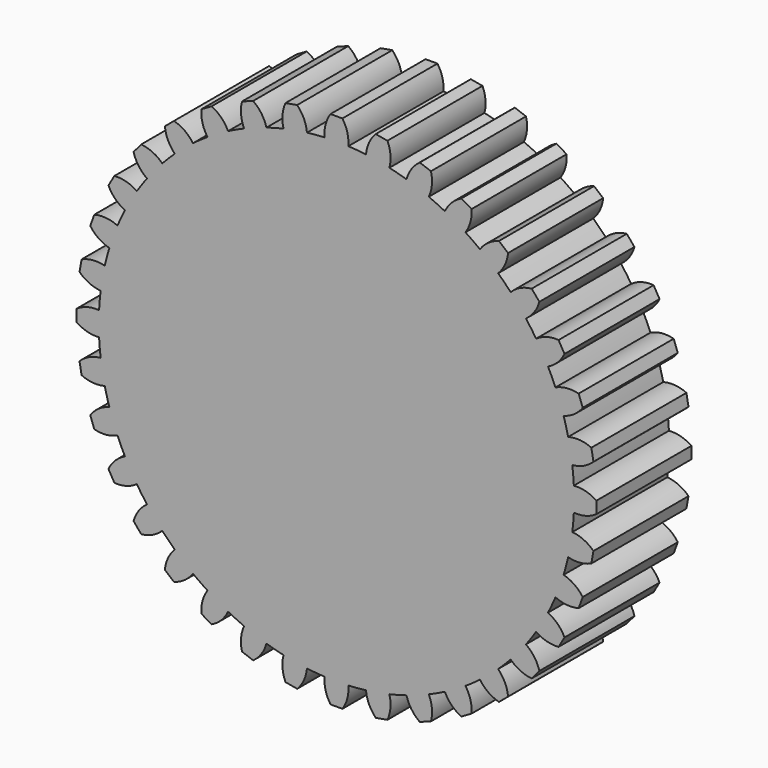
from build123d import *

# Parameters (mm, degrees)
F1_DEPTH = 25.4


with BuildPart() as f1:
    # F0 (on Front) → F1 (new body)
    with BuildSketch(Plane.XZ):
        with BuildLine():
            ThreePointArc((50.73646, -2.54), (50.784113, -1.270397), (50.8, 0))
            ThreePointArc((50.8, 0), (50.784113, 1.270397), (50.73646, 2.54))
            ThreePointArc((50.73646, 2.54), (50.606691, 4.427512), (50.406726, 6.308882))
            ThreePointArc((50.406726, 6.308882), (50.028234, 8.821327), (49.524593, 11.311706))
            ThreePointArc((49.524593, 11.311706), (49.069032, 13.148007), (48.545408, 14.966072))
            ThreePointArc((48.545408, 14.966072), (47.736385, 17.374623), (46.807946, 19.739711))
            ThreePointArc((46.807946, 19.739711), (46.040436, 21.469008), (45.209063, 23.168526))
            ThreePointArc((45.209063, 23.168526), (43.994091, 25.4), (42.669063, 27.567935))
            ThreePointArc((42.669063, 27.567935), (41.612924, 29.137683), (40.499064, 30.667015))
            ThreePointArc((40.499064, 30.667015), (38.915058, 32.653611), (37.233703, 34.558521))
            ThreePointArc((37.233703, 34.558521), (35.921024, 35.921024), (34.558521, 37.233703))
            ThreePointArc((34.558521, 37.233703), (32.653611, 38.915058), (30.667015, 40.499064))
            ThreePointArc((30.667015, 40.499064), (29.137683, 41.612924), (27.567935, 42.669063))
            ThreePointArc((27.567935, 42.669063), (25.4, 43.994091), (23.168526, 45.209063))
            ThreePointArc((23.168526, 45.209063), (21.469008, 46.040436), (19.739711, 46.807946))
            ThreePointArc((19.739711, 46.807946), (17.374623, 47.736385), (14.966072, 48.545408))
            ThreePointArc((14.966072, 48.545408), (13.148007, 49.069032), (11.311706, 49.524593))
            ThreePointArc((11.311706, 49.524593), (8.821327, 50.028234), (6.308882, 50.406726))
            ThreePointArc((6.308882, 50.406726), (4.427512, 50.606691), (2.54, 50.73646))
            ThreePointArc((2.54, 50.73646), (1.270397, 50.784113), (0, 50.8))
            ThreePointArc((0, 50.8), (-1.270397, 50.784113), (-2.54, 50.73646))
            ThreePointArc((-2.54, 50.73646), (-4.427512, 50.606691), (-6.308882, 50.406726))
            ThreePointArc((-6.308882, 50.406726), (-8.821327, 50.028234), (-11.311706, 49.524593))
            ThreePointArc((-11.311706, 49.524593), (-13.148007, 49.069032), (-14.966072, 48.545408))
            ThreePointArc((-14.966072, 48.545408), (-17.374623, 47.736385), (-19.739711, 46.807946))
            ThreePointArc((-19.739711, 46.807946), (-21.469008, 46.040436), (-23.168526, 45.209063))
            ThreePointArc((-23.168526, 45.209063), (-25.4, 43.994091), (-27.567935, 42.669063))
            ThreePointArc((-27.567935, 42.669063), (-29.137683, 41.612924), (-30.667015, 40.499064))
            ThreePointArc((-30.667015, 40.499064), (-32.653611, 38.915058), (-34.558521, 37.233703))
            ThreePointArc((-34.558521, 37.233703), (-35.921024, 35.921024), (-37.233703, 34.558521))
            ThreePointArc((-37.233703, 34.558521), (-38.915058, 32.653611), (-40.499064, 30.667015))
            ThreePointArc((-40.499064, 30.667015), (-41.612924, 29.137683), (-42.669063, 27.567935))
            ThreePointArc((-42.669063, 27.567935), (-43.994091, 25.4), (-45.209063, 23.168526))
            ThreePointArc((-45.209063, 23.168526), (-46.040436, 21.469008), (-46.807946, 19.739711))
            ThreePointArc((-46.807946, 19.739711), (-47.736385, 17.374623), (-48.545408, 14.966072))
            ThreePointArc((-48.545408, 14.966072), (-49.069032, 13.148007), (-49.524593, 11.311706))
            ThreePointArc((-49.524593, 11.311706), (-50.028234, 8.821327), (-50.406726, 6.308882))
            ThreePointArc((-50.406726, 6.308882), (-50.606691, 4.427512), (-50.73646, 2.54))
            ThreePointArc((-50.73646, 2.54), (-50.8, 0), (-50.73646, -2.54))
            ThreePointArc((-50.73646, -2.54), (-50.606691, -4.427512), (-50.406726, -6.308882))
            ThreePointArc((-50.406726, -6.308882), (-50.028234, -8.821327), (-49.524593, -11.311706))
            ThreePointArc((-49.524593, -11.311706), (-49.069032, -13.148007), (-48.545408, -14.966072))
            ThreePointArc((-48.545408, -14.966072), (-47.736385, -17.374623), (-46.807946, -19.739711))
            ThreePointArc((-46.807946, -19.739711), (-46.040436, -21.469008), (-45.209063, -23.168526))
            ThreePointArc((-45.209063, -23.168526), (-43.994091, -25.4), (-42.669063, -27.567935))
            ThreePointArc((-42.669063, -27.567935), (-41.612924, -29.137683), (-40.499064, -30.667015))
            ThreePointArc((-40.499064, -30.667015), (-38.915058, -32.653611), (-37.233703, -34.558521))
            ThreePointArc((-37.233703, -34.558521), (-35.921024, -35.921024), (-34.558521, -37.233703))
            ThreePointArc((-34.558521, -37.233703), (-32.653611, -38.915058), (-30.667015, -40.499064))
            ThreePointArc((-30.667015, -40.499064), (-29.137683, -41.612924), (-27.567935, -42.669063))
            ThreePointArc((-27.567935, -42.669063), (-25.4, -43.994091), (-23.168526, -45.209063))
            ThreePointArc((-23.168526, -45.209063), (-21.469008, -46.040436), (-19.739711, -46.807946))
            ThreePointArc((-19.739711, -46.807946), (-17.374623, -47.736385), (-14.966072, -48.545408))
            ThreePointArc((-14.966072, -48.545408), (-13.148007, -49.069032), (-11.311706, -49.524593))
            ThreePointArc((-11.311706, -49.524593), (-8.821327, -50.028234), (-6.308882, -50.406726))
            ThreePointArc((-6.308882, -50.406726), (-4.427512, -50.606691), (-2.54, -50.73646))
            ThreePointArc((-2.54, -50.73646), (0, -50.8), (2.54, -50.73646))
            ThreePointArc((2.54, -50.73646), (4.427512, -50.606691), (6.308882, -50.406726))
            ThreePointArc((6.308882, -50.406726), (8.821327, -50.028234), (11.311706, -49.524593))
            ThreePointArc((11.311706, -49.524593), (13.148007, -49.069032), (14.966072, -48.545408))
            ThreePointArc((14.966072, -48.545408), (17.374623, -47.736385), (19.739711, -46.807946))
            ThreePointArc((19.739711, -46.807946), (21.469008, -46.040436), (23.168526, -45.209063))
            ThreePointArc((23.168526, -45.209063), (25.4, -43.994091), (27.567935, -42.669063))
            ThreePointArc((27.567935, -42.669063), (29.137683, -41.612924), (30.667015, -40.499064))
            ThreePointArc((30.667015, -40.499064), (32.653611, -38.915058), (34.558521, -37.233703))
            ThreePointArc((34.558521, -37.233703), (35.921024, -35.921024), (37.233703, -34.558521))
            ThreePointArc((37.233703, -34.558521), (38.915058, -32.653611), (40.499064, -30.667015))
            ThreePointArc((40.499064, -30.667015), (41.612924, -29.137683), (42.669063, -27.567935))
            ThreePointArc((42.669063, -27.567935), (43.994091, -25.4), (45.209063, -23.168526))
            ThreePointArc((45.209063, -23.168526), (46.040436, -21.469008), (46.807946, -19.739711))
            ThreePointArc((46.807946, -19.739711), (47.736385, -17.374623), (48.545408, -14.966072))
            ThreePointArc((48.545408, -14.966072), (49.069032, -13.148007), (49.524593, -11.311706))
            ThreePointArc((49.524593, -11.311706), (50.028234, -8.821327), (50.406726, -6.308882))
            ThreePointArc((50.406726, -6.308882), (50.606691, -4.427512), (50.73646, -2.54))
        make_face()
        with BuildLine():
            ThreePointArc((-45.209063, 23.168526), (-43.994091, 25.4), (-42.669063, 27.567935))
            ThreePointArc((-42.669063, 27.567935), (-44.956858, 28.640162), (-47.472538, 28.874752))
            Line((-47.472538, 28.874752), (-48.742538, 26.675048))
            ThreePointArc((-48.742538, 26.675048), (-47.281537, 24.613701), (-45.209063, 23.168526))
        make_face()
        with BuildLine():
            ThreePointArc((-48.545408, 14.966072), (-47.736385, 17.374623), (-46.807946, 19.739711))
            ThreePointArc((-46.807946, 19.739711), (-49.247175, 20.398377), (-51.765372, 20.19256))
            Line((-51.765372, 20.19256), (-52.634103, 17.805741))
            ThreePointArc((-52.634103, 17.805741), (-50.837348, 16.02941), (-48.545408, 14.966072))
        make_face()
        with BuildLine():
            ThreePointArc((-50.406726, 6.308882), (-50.028234, 8.821327), (-49.524593, 11.311706))
            ThreePointArc((-49.524593, 11.311706), (-52.04114, 11.536798), (-54.485341, 10.896827))
            Line((-54.485341, 10.896827), (-54.926407, 8.395416))
            ThreePointArc((-54.926407, 8.395416), (-52.848493, 6.958075), (-50.406726, 6.308882))
        make_face()
        with BuildLine():
            ThreePointArc((-55.5498, -1.27), (-53.253862, -2.324679), (-50.73646, -2.54))
            ThreePointArc((-50.73646, -2.54), (-50.8, 0), (-50.73646, 2.54))
            ThreePointArc((-50.73646, 2.54), (-53.253862, 2.324679), (-55.5498, 1.27))
            Line((-55.5498, 1.27), (-55.5498, -1.27))
        make_face()
        with BuildLine():
            ThreePointArc((-54.485341, -10.896827), (-52.04114, -11.536798), (-49.524593, -11.311706))
            ThreePointArc((-49.524593, -11.311706), (-50.028234, -8.821327), (-50.406726, -6.308882))
            ThreePointArc((-50.406726, -6.308882), (-52.848493, -6.958075), (-54.926407, -8.395416))
            Line((-54.926407, -8.395416), (-54.485341, -10.896827))
        make_face()
        with BuildLine():
            ThreePointArc((-51.765372, -20.19256), (-49.247175, -20.398377), (-46.807946, -19.739711))
            ThreePointArc((-46.807946, -19.739711), (-47.736385, -17.374623), (-48.545408, -14.966072))
            ThreePointArc((-48.545408, -14.966072), (-50.837348, -16.02941), (-52.634103, -17.805741))
            Line((-52.634103, -17.805741), (-51.765372, -20.19256))
        make_face()
        with BuildLine():
            ThreePointArc((-47.472538, -28.874752), (-44.956858, -28.640162), (-42.669063, -27.567935))
            ThreePointArc((-42.669063, -27.567935), (-43.994091, -25.4), (-45.209063, -23.168526))
            ThreePointArc((-45.209063, -23.168526), (-47.281537, -24.613701), (-48.742538, -26.675048))
            Line((-48.742538, -26.675048), (-47.472538, -28.874752))
        make_face()
        with BuildLine():
            ThreePointArc((-41.737275, -36.6796), (-39.300551, -36.01173), (-37.233703, -34.558521))
            ThreePointArc((-37.233703, -34.558521), (-38.915058, -32.653611), (-40.499064, -30.667015))
            ThreePointArc((-40.499064, -30.667015), (-42.2891, -32.450116), (-43.369956, -34.733847))
            Line((-43.369956, -34.733847), (-41.737275, -36.6796))
        make_face()
        with BuildLine():
            ThreePointArc((-34.733847, -43.369956), (-32.450116, -42.2891), (-30.667015, -40.499064))
            ThreePointArc((-30.667015, -40.499064), (-32.653611, -38.915058), (-34.558521, -37.233703))
            ThreePointArc((-34.558521, -37.233703), (-36.01173, -39.300551), (-36.6796, -41.737275))
            Line((-36.6796, -41.737275), (-34.733847, -43.369956))
        make_face()
        with BuildLine():
            ThreePointArc((-26.675048, -48.742538), (-24.613701, -47.281537), (-23.168526, -45.209063))
            ThreePointArc((-23.168526, -45.209063), (-25.4, -43.994091), (-27.567935, -42.669063))
            ThreePointArc((-27.567935, -42.669063), (-28.640162, -44.956858), (-28.874752, -47.472538))
            Line((-28.874752, -47.472538), (-26.675048, -48.742538))
        make_face()
        with BuildLine():
            ThreePointArc((-17.805741, -52.634103), (-16.02941, -50.837348), (-14.966072, -48.545408))
            ThreePointArc((-14.966072, -48.545408), (-17.374623, -47.736385), (-19.739711, -46.807946))
            ThreePointArc((-19.739711, -46.807946), (-20.398377, -49.247175), (-20.19256, -51.765372))
            Line((-20.19256, -51.765372), (-17.805741, -52.634103))
        make_face()
        with BuildLine():
            ThreePointArc((-8.395416, -54.926407), (-6.958075, -52.848493), (-6.308882, -50.406726))
            ThreePointArc((-6.308882, -50.406726), (-8.821327, -50.028234), (-11.311706, -49.524593))
            ThreePointArc((-11.311706, -49.524593), (-11.536798, -52.04114), (-10.896827, -54.485341))
            Line((-10.896827, -54.485341), (-8.395416, -54.926407))
        make_face()
        with BuildLine():
            ThreePointArc((1.27, -55.5498), (2.324679, -53.253862), (2.54, -50.73646))
            ThreePointArc((2.54, -50.73646), (0, -50.8), (-2.54, -50.73646))
            ThreePointArc((-2.54, -50.73646), (-2.324679, -53.253862), (-1.27, -55.5498))
            Line((-1.27, -55.5498), (1.27, -55.5498))
        make_face()
        with BuildLine():
            ThreePointArc((10.896827, -54.485341), (11.536798, -52.04114), (11.311706, -49.524593))
            ThreePointArc((11.311706, -49.524593), (8.821327, -50.028234), (6.308882, -50.406726))
            ThreePointArc((6.308882, -50.406726), (6.958075, -52.848493), (8.395416, -54.926407))
            Line((8.395416, -54.926407), (10.896827, -54.485341))
        make_face()
        with BuildLine():
            ThreePointArc((20.19256, -51.765372), (20.398377, -49.247175), (19.739711, -46.807946))
            ThreePointArc((19.739711, -46.807946), (17.374623, -47.736385), (14.966072, -48.545408))
            ThreePointArc((14.966072, -48.545408), (16.02941, -50.837348), (17.805741, -52.634103))
            Line((17.805741, -52.634103), (20.19256, -51.765372))
        make_face()
        with BuildLine():
            ThreePointArc((28.874752, -47.472538), (28.640162, -44.956858), (27.567935, -42.669063))
            ThreePointArc((27.567935, -42.669063), (25.4, -43.994091), (23.168526, -45.209063))
            ThreePointArc((23.168526, -45.209063), (24.613701, -47.281537), (26.675048, -48.742538))
            Line((26.675048, -48.742538), (28.874752, -47.472538))
        make_face()
        with BuildLine():
            ThreePointArc((36.6796, -41.737275), (36.01173, -39.300551), (34.558521, -37.233703))
            ThreePointArc((34.558521, -37.233703), (32.653611, -38.915058), (30.667015, -40.499064))
            ThreePointArc((30.667015, -40.499064), (32.450116, -42.2891), (34.733847, -43.369956))
            Line((34.733847, -43.369956), (36.6796, -41.737275))
        make_face()
        with BuildLine():
            ThreePointArc((43.369956, -34.733847), (42.2891, -32.450116), (40.499064, -30.667015))
            ThreePointArc((40.499064, -30.667015), (38.915058, -32.653611), (37.233703, -34.558521))
            ThreePointArc((37.233703, -34.558521), (39.300551, -36.01173), (41.737275, -36.6796))
            Line((41.737275, -36.6796), (43.369956, -34.733847))
        make_face()
        with BuildLine():
            ThreePointArc((48.742538, -26.675048), (47.281537, -24.613701), (45.209063, -23.168526))
            ThreePointArc((45.209063, -23.168526), (43.994091, -25.4), (42.669063, -27.567935))
            ThreePointArc((42.669063, -27.567935), (44.956858, -28.640162), (47.472538, -28.874752))
            Line((47.472538, -28.874752), (48.742538, -26.675048))
        make_face()
        with BuildLine():
            ThreePointArc((52.634103, -17.805741), (50.837348, -16.02941), (48.545408, -14.966072))
            ThreePointArc((48.545408, -14.966072), (47.736385, -17.374623), (46.807946, -19.739711))
            ThreePointArc((46.807946, -19.739711), (49.247175, -20.398377), (51.765372, -20.19256))
            Line((51.765372, -20.19256), (52.634103, -17.805741))
        make_face()
        with BuildLine():
            ThreePointArc((54.926407, -8.395416), (52.848493, -6.958075), (50.406726, -6.308882))
            ThreePointArc((50.406726, -6.308882), (50.028234, -8.821327), (49.524593, -11.311706))
            ThreePointArc((49.524593, -11.311706), (52.04114, -11.536798), (54.485341, -10.896827))
            Line((54.485341, -10.896827), (54.926407, -8.395416))
        make_face()
        with BuildLine():
            ThreePointArc((50.73646, 2.54), (50.784113, 1.270397), (50.8, 0))
            ThreePointArc((50.8, 0), (50.784113, -1.270397), (50.73646, -2.54))
            ThreePointArc((50.73646, -2.54), (53.253862, -2.324679), (55.5498, -1.27))
            Line((55.5498, -1.27), (55.5498, 1.27))
            ThreePointArc((55.5498, 1.27), (53.253862, 2.324679), (50.73646, 2.54))
        make_face()
        with BuildLine():
            ThreePointArc((49.524593, 11.311706), (50.028234, 8.821327), (50.406726, 6.308882))
            ThreePointArc((50.406726, 6.308882), (52.848493, 6.958075), (54.926407, 8.395416))
            Line((54.926407, 8.395416), (54.485341, 10.896827))
            ThreePointArc((54.485341, 10.896827), (52.04114, 11.536798), (49.524593, 11.311706))
        make_face()
        with BuildLine():
            ThreePointArc((46.807946, 19.739711), (47.736385, 17.374623), (48.545408, 14.966072))
            ThreePointArc((48.545408, 14.966072), (50.837348, 16.02941), (52.634103, 17.805741))
            Line((52.634103, 17.805741), (51.765372, 20.19256))
            ThreePointArc((51.765372, 20.19256), (49.247175, 20.398377), (46.807946, 19.739711))
        make_face()
        with BuildLine():
            ThreePointArc((42.669063, 27.567935), (43.994091, 25.4), (45.209063, 23.168526))
            ThreePointArc((45.209063, 23.168526), (47.281537, 24.613701), (48.742538, 26.675048))
            Line((48.742538, 26.675048), (47.472538, 28.874752))
            ThreePointArc((47.472538, 28.874752), (44.956858, 28.640162), (42.669063, 27.567935))
        make_face()
        with BuildLine():
            ThreePointArc((37.233703, 34.558521), (38.915058, 32.653611), (40.499064, 30.667015))
            ThreePointArc((40.499064, 30.667015), (42.2891, 32.450116), (43.369956, 34.733847))
            Line((43.369956, 34.733847), (41.737275, 36.6796))
            ThreePointArc((41.737275, 36.6796), (39.300551, 36.01173), (37.233703, 34.558521))
        make_face()
        with BuildLine():
            ThreePointArc((30.667015, 40.499064), (32.653611, 38.915058), (34.558521, 37.233703))
            ThreePointArc((34.558521, 37.233703), (36.01173, 39.300551), (36.6796, 41.737275))
            Line((36.6796, 41.737275), (34.733847, 43.369956))
            ThreePointArc((34.733847, 43.369956), (32.450116, 42.2891), (30.667015, 40.499064))
        make_face()
        with BuildLine():
            ThreePointArc((23.168526, 45.209063), (25.4, 43.994091), (27.567935, 42.669063))
            ThreePointArc((27.567935, 42.669063), (28.640162, 44.956858), (28.874752, 47.472538))
            Line((28.874752, 47.472538), (26.675048, 48.742538))
            ThreePointArc((26.675048, 48.742538), (24.613701, 47.281537), (23.168526, 45.209063))
        make_face()
        with BuildLine():
            ThreePointArc((14.966072, 48.545408), (17.374623, 47.736385), (19.739711, 46.807946))
            ThreePointArc((19.739711, 46.807946), (20.398377, 49.247175), (20.19256, 51.765372))
            Line((20.19256, 51.765372), (17.805741, 52.634103))
            ThreePointArc((17.805741, 52.634103), (16.02941, 50.837348), (14.966072, 48.545408))
        make_face()
        with BuildLine():
            ThreePointArc((6.308882, 50.406726), (8.821327, 50.028234), (11.311706, 49.524593))
            ThreePointArc((11.311706, 49.524593), (11.536798, 52.04114), (10.896827, 54.485341))
            Line((10.896827, 54.485341), (8.395416, 54.926407))
            ThreePointArc((8.395416, 54.926407), (6.958075, 52.848493), (6.308882, 50.406726))
        make_face()
        with BuildLine():
            ThreePointArc((-2.54, 50.73646), (-1.270397, 50.784113), (0, 50.8))
            Line((0, 50.8), (0, 55.5498))
            Line((0, 55.5498), (-1.27, 55.5498))
            ThreePointArc((-1.27, 55.5498), (-2.324679, 53.253862), (-2.54, 50.73646))
        make_face()
        with BuildLine():
            ThreePointArc((-40.499064, 30.667015), (-38.915058, 32.653611), (-37.233703, 34.558521))
            ThreePointArc((-37.233703, 34.558521), (-39.300551, 36.01173), (-41.737275, 36.6796))
            Line((-41.737275, 36.6796), (-43.369956, 34.733847))
            ThreePointArc((-43.369956, 34.733847), (-42.2891, 32.450116), (-40.499064, 30.667015))
        make_face()
        with BuildLine():
            ThreePointArc((-34.558521, 37.233703), (-32.653611, 38.915058), (-30.667015, 40.499064))
            ThreePointArc((-30.667015, 40.499064), (-32.450116, 42.2891), (-34.733847, 43.369956))
            Line((-34.733847, 43.369956), (-36.6796, 41.737275))
            ThreePointArc((-36.6796, 41.737275), (-36.01173, 39.300551), (-34.558521, 37.233703))
        make_face()
        with BuildLine():
            ThreePointArc((-27.567935, 42.669063), (-25.4, 43.994091), (-23.168526, 45.209063))
            ThreePointArc((-23.168526, 45.209063), (-24.613701, 47.281537), (-26.675048, 48.742538))
            Line((-26.675048, 48.742538), (-28.874752, 47.472538))
            ThreePointArc((-28.874752, 47.472538), (-28.640162, 44.956858), (-27.567935, 42.669063))
        make_face()
        with BuildLine():
            ThreePointArc((-19.739711, 46.807946), (-17.374623, 47.736385), (-14.966072, 48.545408))
            ThreePointArc((-14.966072, 48.545408), (-16.02941, 50.837348), (-17.805741, 52.634103))
            Line((-17.805741, 52.634103), (-20.19256, 51.765372))
            ThreePointArc((-20.19256, 51.765372), (-20.398377, 49.247175), (-19.739711, 46.807946))
        make_face()
        with BuildLine():
            ThreePointArc((-11.311706, 49.524593), (-8.821327, 50.028234), (-6.308882, 50.406726))
            ThreePointArc((-6.308882, 50.406726), (-6.958075, 52.848493), (-8.395416, 54.926407))
            Line((-8.395416, 54.926407), (-10.896827, 54.485341))
            ThreePointArc((-10.896827, 54.485341), (-11.536798, 52.04114), (-11.311706, 49.524593))
        make_face()
        with BuildLine():
            ThreePointArc((0, 50.8), (1.270397, 50.784113), (2.54, 50.73646))
            ThreePointArc((2.54, 50.73646), (2.324679, 53.253862), (1.27, 55.5498))
            Line((1.27, 55.5498), (0, 55.5498))
            Line((0, 55.5498), (0, 50.8))
        make_face()
    extrude(amount=F1_DEPTH)


solid = f1.part
